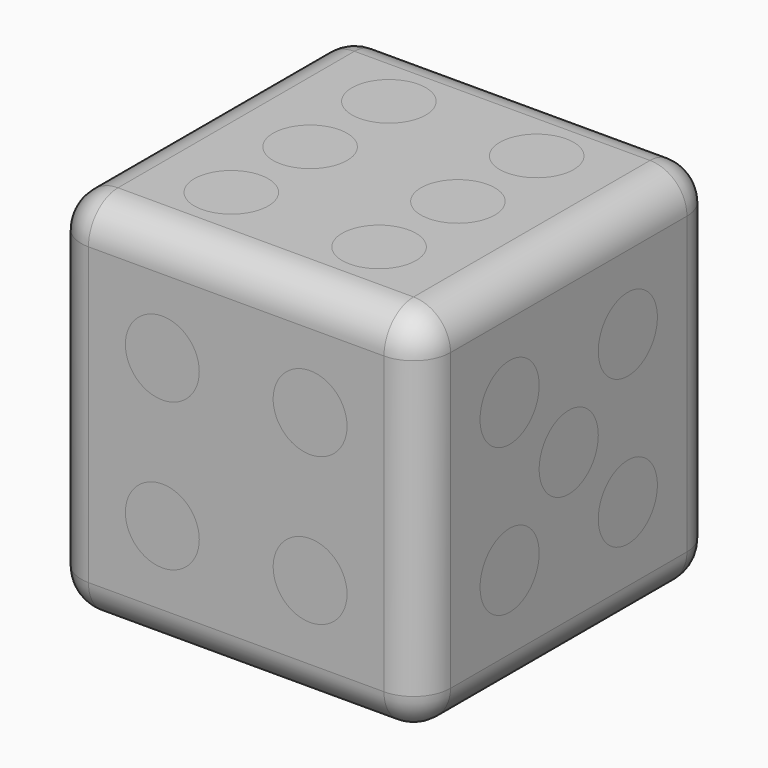
from build123d import *

# Parameters (mm, degrees)
F0_W      = 25.4
F0_H      = 25.4
F1_DEPTH  = 12.7
F2_W      = 25.4
F2_H      = 25.4
F2_W_2    = 17.78
F2_H_2    = 17.78
F3_DEPTH  = 8.89
F4_W      = 25.4
F4_H      = 25.4
F5_DEPTH  = 3.81
F6_R      = 2.54
F8_DEPTH  = 2.54
F9_R      = 2.54
F10_DEPTH = 2.54
F12_DEPTH = 2.54
F14_DEPTH = 2.54
F15_R     = 2.54
F16_DEPTH = 2.54
F18_DEPTH = 2.54
F19_DEPTH = 2.54
F20_DEPTH = 2.54
F21_DEPTH = 2.54
F22_DEPTH = 2.54
F23_DEPTH = 2.54
F24_DEPTH = 2.54


with BuildPart() as f1:
    # F0 (on Top) → F1 (new body)
    with BuildSketch(Plane.XY):
        with Locations((-40.1477050036, 31.3783520141)):
            Rectangle(F0_W, F0_H)
    extrude(amount=F1_DEPTH)

    # F2 (on face) → F3 (join)
    with BuildSketch(Plane.XY.offset(12.7)):
        with Locations((-40.1477050036, 31.3783520141)):
            Rectangle(F2_W, F2_H)
        with Locations((-40.1477050036, 31.3783520141)):
            Rectangle(F2_W_2, F2_H_2, mode=Mode.SUBTRACT)
        with Locations((-40.1477050036, 31.3783520141)):
            Rectangle(F2_W_2, F2_H_2)
    extrude(amount=F3_DEPTH)

    # F4 (on face) → F5 (join)
    with BuildSketch(Plane.XY.offset(21.59)):
        with Locations((-40.1477050036, 31.3783520141)):
            Rectangle(F4_W, F4_H)
    extrude(amount=F5_DEPTH)

    # F6
    f6_edges = [f1.edges().sort_by_distance(p)[0] for p in [
        (-40.147705, 18.678352, 25.4),
        (-27.447705, 31.378352, 25.4),
        (-27.447705, 18.678352, 12.7),
        (-27.447705, 44.078352, 12.7),
        (-40.147705, 44.078352, 25.4),
        (-52.847705, 31.378352, 25.4),
        (-52.847705, 18.678352, 12.7),
        (-40.147705, 18.678352, 0),
        (-52.847705, 31.378352, 0),
        (-40.147705, 44.078352, 0),
        (-27.447705, 31.378352, 0),
        (-52.847705, 44.078352, 12.7),
    ]]
    fillet(f6_edges, radius=F6_R)

    # F7 (on face) → F8 (cut)
    with BuildSketch(Plane.XY.offset(25.4)):
        with BuildLine():
            ThreePointArc((-42.6877050036, 38.1516853475), (-43.4316537794, 39.9477365717), (-45.2277050036, 40.6916853475))
            Line((-45.2277050036, 40.6916853475), (-45.2277050036, 38.1516853475))
            Line((-45.2277050036, 38.1516853475), (-45.2277050036, 35.6116853475))
            ThreePointArc((-45.2277050036, 35.6116853475), (-43.4316537794, 36.3556341233), (-42.6877050036, 38.1516853475))
        make_face()
        with BuildLine():
            Line((-45.2277050036, 38.1516853475), (-45.2277050036, 40.6916853475))
            ThreePointArc((-45.2277050036, 40.6916853475), (-47.7677050036, 38.1516853475), (-45.2277050036, 35.6116853475))
            Line((-45.2277050036, 35.6116853475), (-45.2277050036, 38.1516853475))
        make_face()
        with BuildLine():
            Line((-35.0677050036, 38.1516853475), (-32.5277050036, 38.1516853475))
            ThreePointArc((-32.5277050036, 38.1516853475), (-36.8637562278, 39.9477365717), (-35.0677050036, 35.6116853475))
            Line((-35.0677050036, 35.6116853475), (-35.0677050036, 38.1516853475))
        make_face()
        with BuildLine():
            ThreePointArc((-35.0677050036, 35.6116853475), (-33.2716537794, 36.3556341233), (-32.5277050036, 38.1516853475))
            Line((-32.5277050036, 38.1516853475), (-35.0677050036, 38.1516853475))
            Line((-35.0677050036, 38.1516853475), (-35.0677050036, 35.6116853475))
        make_face()
        with BuildLine():
            ThreePointArc((-32.5277050036, 31.3783520141), (-33.2716537794, 33.1744032384), (-35.0677050036, 33.9183520141))
            ThreePointArc((-35.0677050036, 33.9183520141), (-36.8637562278, 29.5823007899), (-32.5277050036, 31.3783520141))
        make_face()
        with BuildLine():
            ThreePointArc((-32.5277050036, 24.6050186808), (-36.8637562278, 26.401069905), (-35.0677050036, 22.0650186808))
            ThreePointArc((-35.0677050036, 22.0650186808), (-33.2716537794, 22.8089674566), (-32.5277050036, 24.6050186808))
        make_face()
        with BuildLine():
            ThreePointArc((-42.6877050036, 24.6050186808), (-45.2277050036, 27.1450186808), (-47.7677050036, 24.6050186808))
            ThreePointArc((-47.7677050036, 24.6050186808), (-45.2277050036, 22.0650186808), (-42.6877050036, 24.6050186808))
        make_face()
        with BuildLine():
            ThreePointArc((-42.6877050036, 31.3783520141), (-43.4316537794, 33.1744032384), (-45.2277050036, 33.9183520141))
            ThreePointArc((-45.2277050036, 33.9183520141), (-47.0237562278, 29.5823007899), (-42.6877050036, 31.3783520141))
        make_face()
    extrude(amount=-F8_DEPTH, mode=Mode.SUBTRACT)

    # F9 (on face) → F10 (cut)
    with BuildSketch(Plane.YZ.offset(-27.4477050036)):
        with BuildLine():
            ThreePointArc((28.8383520141, 17.78), (28.0944032384, 19.5760512242), (26.2983520141, 20.32))
            Line((26.2983520141, 20.32), (26.2983520141, 17.78))
            Line((26.2983520141, 17.78), (26.2983520141, 15.24))
            ThreePointArc((26.2983520141, 15.24), (28.0944032384, 15.9839487758), (28.8383520141, 17.78))
        make_face()
        with BuildLine():
            Line((26.2983520141, 17.78), (26.2983520141, 20.32))
            ThreePointArc((26.2983520141, 20.32), (23.7583520141, 17.78), (26.2983520141, 15.24))
            Line((26.2983520141, 15.24), (26.2983520141, 17.78))
        make_face()
        with BuildLine():
            ThreePointArc((28.8383520141, 7.62), (28.0944032384, 9.4160512242), (26.2983520141, 10.16))
            ThreePointArc((26.2983520141, 10.16), (24.5023007899, 5.8239487758), (28.8383520141, 7.62))
        make_face()
        with Locations((31.3783520141, 12.7)):
            Circle(F9_R)
        with BuildLine():
            Line((36.4583520141, 17.78), (38.9983520141, 17.78))
            ThreePointArc((38.9983520141, 17.78), (34.6623007899, 19.5760512242), (36.4583520141, 15.24))
            Line((36.4583520141, 15.24), (36.4583520141, 17.78))
        make_face()
        with BuildLine():
            ThreePointArc((36.4583520141, 15.24), (38.2544032384, 15.9839487758), (38.9983520141, 17.78))
            Line((38.9983520141, 17.78), (36.4583520141, 17.78))
            Line((36.4583520141, 17.78), (36.4583520141, 15.24))
        make_face()
        with BuildLine():
            ThreePointArc((38.9983520141, 7.62), (38.2544032384, 9.4160512242), (36.4583520141, 10.16))
            ThreePointArc((36.4583520141, 10.16), (34.6623007899, 5.8239487758), (38.9983520141, 7.62))
        make_face()
    extrude(amount=-F10_DEPTH, mode=Mode.SUBTRACT)

    # F11 (on face) → F12 (cut)
    with BuildSketch(Plane(origin=(0, 44.0783520141, 0), x_dir=(-1, 0, 0), z_dir=(0, 1, 0))):
        with BuildLine():
            ThreePointArc((37.6077050036, 17.78), (36.8637562278, 19.5760512242), (35.0677050036, 20.32))
            ThreePointArc((35.0677050036, 20.32), (33.2716537794, 15.9839487758), (37.6077050036, 17.78))
        make_face()
        with BuildLine():
            ThreePointArc((42.6877050036, 12.7), (41.9437562278, 14.4960512242), (40.1477050036, 15.24))
            ThreePointArc((40.1477050036, 15.24), (38.3516537794, 10.9039487758), (42.6877050036, 12.7))
        make_face()
        with BuildLine():
            ThreePointArc((47.7677050036, 7.62), (43.4316537794, 9.4160512242), (45.2277050036, 5.08))
            ThreePointArc((45.2277050036, 5.08), (47.0237562278, 5.8239487758), (47.7677050036, 7.62))
        make_face()
    extrude(amount=-F12_DEPTH, mode=Mode.SUBTRACT)

    # F13 (on face) → F14 (cut)
    with BuildSketch(Plane(origin=(-52.8477050036, 0, 0), x_dir=(0, -1, 0), z_dir=(-1, 0, 0))):
        with BuildLine():
            ThreePointArc((-33.9183520141, 17.78), (-34.6623007899, 19.5760512242), (-36.4583520141, 20.32))
            ThreePointArc((-36.4583520141, 20.32), (-38.2544032384, 15.9839487758), (-33.9183520141, 17.78))
        make_face()
        with BuildLine():
            ThreePointArc((-23.7583520141, 7.62), (-28.0944032384, 9.4160512242), (-26.2983520141, 5.08))
            ThreePointArc((-26.2983520141, 5.08), (-24.5023007899, 5.8239487758), (-23.7583520141, 7.62))
        make_face()
    extrude(amount=-F14_DEPTH, mode=Mode.SUBTRACT)

    # F15 (on face) → F16 (cut)
    with BuildSketch(Plane.XZ.offset(-18.6783520141)):
        with BuildLine():
            ThreePointArc((-42.6877050036, 17.78), (-43.4316537794, 19.5760512242), (-45.2277050036, 20.32))
            ThreePointArc((-45.2277050036, 20.32), (-47.0237562278, 15.9839487758), (-42.6877050036, 17.78))
        make_face()
        with Locations((-35.0677050036, 17.78)):
            Circle(F15_R)
        with BuildLine():
            ThreePointArc((-32.5277050036, 7.62), (-36.8637562278, 9.4160512242), (-35.0677050036, 5.08))
            ThreePointArc((-35.0677050036, 5.08), (-33.2716537794, 5.8239487758), (-32.5277050036, 7.62))
        make_face()
        with BuildLine():
            ThreePointArc((-42.6877050036, 7.62), (-47.0237562278, 9.4160512242), (-45.2277050036, 5.08))
            ThreePointArc((-45.2277050036, 5.08), (-43.4316537794, 5.8239487758), (-42.6877050036, 7.62))
        make_face()
    extrude(amount=-F16_DEPTH, mode=Mode.SUBTRACT)

    # F17 (on face) → F18 (cut)
    with BuildSketch(Plane(origin=(0, 0, 0), x_dir=(1, 0, 0), z_dir=(0, 0, -1))):
        with BuildLine():
            ThreePointArc((-37.6077050036, -31.3783520141), (-38.3516537794, -29.5823007899), (-40.1477050036, -28.8383520141))
            ThreePointArc((-40.1477050036, -28.8383520141), (-41.9437562278, -33.1744032384), (-37.6077050036, -31.3783520141))
        make_face()
    extrude(amount=-F18_DEPTH, mode=Mode.SUBTRACT)


with BuildPart() as f19:
    # F11 (on face) → F19 (new body)
    with BuildSketch(Plane(origin=(0, 44.0783520141, 0), x_dir=(-1, 0, 0), z_dir=(0, 1, 0))):
        with BuildLine():
            ThreePointArc((37.6077050036, 17.78), (36.8637562278, 19.5760512242), (35.0677050036, 20.32))
            ThreePointArc((35.0677050036, 20.32), (33.2716537794, 15.9839487758), (37.6077050036, 17.78))
        make_face()
    extrude(amount=-F19_DEPTH)


with BuildPart() as f19b:
    # F11 (on face) → F19, piece 2 (new body)
    with BuildSketch(Plane(origin=(0, 44.0783520141, 0), x_dir=(-1, 0, 0), z_dir=(0, 1, 0))):
        with BuildLine():
            ThreePointArc((42.6877050036, 12.7), (41.9437562278, 14.4960512242), (40.1477050036, 15.24))
            ThreePointArc((40.1477050036, 15.24), (38.3516537794, 10.9039487758), (42.6877050036, 12.7))
        make_face()
    extrude(amount=-F19_DEPTH)


with BuildPart() as f19c:
    # F11 (on face) → F19, piece 3 (new body)
    with BuildSketch(Plane(origin=(0, 44.0783520141, 0), x_dir=(-1, 0, 0), z_dir=(0, 1, 0))):
        with BuildLine():
            ThreePointArc((47.7677050036, 7.62), (43.4316537794, 9.4160512242), (45.2277050036, 5.08))
            ThreePointArc((45.2277050036, 5.08), (47.0237562278, 5.8239487758), (47.7677050036, 7.62))
        make_face()
    extrude(amount=-F19_DEPTH)


with BuildPart() as f20:
    # F9 (on face) → F20 (new body)
    with BuildSketch(Plane.YZ.offset(-27.4477050036)):
        with BuildLine():
            ThreePointArc((28.8383520141, 17.78), (28.0944032384, 19.5760512242), (26.2983520141, 20.32))
            Line((26.2983520141, 20.32), (26.2983520141, 17.78))
            Line((26.2983520141, 17.78), (26.2983520141, 15.24))
            ThreePointArc((26.2983520141, 15.24), (28.0944032384, 15.9839487758), (28.8383520141, 17.78))
        make_face()
        with BuildLine():
            Line((26.2983520141, 17.78), (26.2983520141, 20.32))
            ThreePointArc((26.2983520141, 20.32), (23.7583520141, 17.78), (26.2983520141, 15.24))
            Line((26.2983520141, 15.24), (26.2983520141, 17.78))
        make_face()
    extrude(amount=-F20_DEPTH)


with BuildPart() as f20b:
    # F9 (on face) → F20, piece 2 (new body)
    with BuildSketch(Plane.YZ.offset(-27.4477050036)):
        with BuildLine():
            Line((36.4583520141, 17.78), (38.9983520141, 17.78))
            ThreePointArc((38.9983520141, 17.78), (34.6623007899, 19.5760512242), (36.4583520141, 15.24))
            Line((36.4583520141, 15.24), (36.4583520141, 17.78))
        make_face()
        with BuildLine():
            ThreePointArc((36.4583520141, 15.24), (38.2544032384, 15.9839487758), (38.9983520141, 17.78))
            Line((38.9983520141, 17.78), (36.4583520141, 17.78))
            Line((36.4583520141, 17.78), (36.4583520141, 15.24))
        make_face()
    extrude(amount=-F20_DEPTH)


with BuildPart() as f20c:
    # F9 (on face) → F20, piece 3 (new body)
    with BuildSketch(Plane.YZ.offset(-27.4477050036)):
        with BuildLine():
            ThreePointArc((28.8383520141, 7.62), (28.0944032384, 9.4160512242), (26.2983520141, 10.16))
            ThreePointArc((26.2983520141, 10.16), (24.5023007899, 5.8239487758), (28.8383520141, 7.62))
        make_face()
    extrude(amount=-F20_DEPTH)


with BuildPart() as f20d:
    # F9 (on face) → F20, piece 4 (new body)
    with BuildSketch(Plane.YZ.offset(-27.4477050036)):
        with Locations((31.3783520141, 12.7)):
            Circle(F9_R)
    extrude(amount=-F20_DEPTH)


with BuildPart() as f20e:
    # F9 (on face) → F20, piece 5 (new body)
    with BuildSketch(Plane.YZ.offset(-27.4477050036)):
        with BuildLine():
            ThreePointArc((38.9983520141, 7.62), (38.2544032384, 9.4160512242), (36.4583520141, 10.16))
            ThreePointArc((36.4583520141, 10.16), (34.6623007899, 5.8239487758), (38.9983520141, 7.62))
        make_face()
    extrude(amount=-F20_DEPTH)


with BuildPart() as f21:
    # F13 (on face) → F21 (new body)
    with BuildSketch(Plane(origin=(-52.8477050036, 0, 0), x_dir=(0, -1, 0), z_dir=(-1, 0, 0))):
        with BuildLine():
            ThreePointArc((-33.9183520141, 17.78), (-34.6623007899, 19.5760512242), (-36.4583520141, 20.32))
            ThreePointArc((-36.4583520141, 20.32), (-38.2544032384, 15.9839487758), (-33.9183520141, 17.78))
        make_face()
    extrude(amount=-F21_DEPTH)


with BuildPart() as f21b:
    # F13 (on face) → F21, piece 2 (new body)
    with BuildSketch(Plane(origin=(-52.8477050036, 0, 0), x_dir=(0, -1, 0), z_dir=(-1, 0, 0))):
        with BuildLine():
            ThreePointArc((-23.7583520141, 7.62), (-28.0944032384, 9.4160512242), (-26.2983520141, 5.08))
            ThreePointArc((-26.2983520141, 5.08), (-24.5023007899, 5.8239487758), (-23.7583520141, 7.62))
        make_face()
    extrude(amount=-F21_DEPTH)


with BuildPart() as f22:
    # F15 (on face) → F22 (new body)
    with BuildSketch(Plane.XZ.offset(-18.6783520141)):
        with BuildLine():
            ThreePointArc((-42.6877050036, 17.78), (-43.4316537794, 19.5760512242), (-45.2277050036, 20.32))
            ThreePointArc((-45.2277050036, 20.32), (-47.0237562278, 15.9839487758), (-42.6877050036, 17.78))
        make_face()
    extrude(amount=-F22_DEPTH)


with BuildPart() as f22b:
    # F15 (on face) → F22, piece 2 (new body)
    with BuildSketch(Plane.XZ.offset(-18.6783520141)):
        with Locations((-35.0677050036, 17.78)):
            Circle(F15_R)
    extrude(amount=-F22_DEPTH)


with BuildPart() as f22c:
    # F15 (on face) → F22, piece 3 (new body)
    with BuildSketch(Plane.XZ.offset(-18.6783520141)):
        with BuildLine():
            ThreePointArc((-32.5277050036, 7.62), (-36.8637562278, 9.4160512242), (-35.0677050036, 5.08))
            ThreePointArc((-35.0677050036, 5.08), (-33.2716537794, 5.8239487758), (-32.5277050036, 7.62))
        make_face()
    extrude(amount=-F22_DEPTH)


with BuildPart() as f22d:
    # F15 (on face) → F22, piece 4 (new body)
    with BuildSketch(Plane.XZ.offset(-18.6783520141)):
        with BuildLine():
            ThreePointArc((-42.6877050036, 7.62), (-47.0237562278, 9.4160512242), (-45.2277050036, 5.08))
            ThreePointArc((-45.2277050036, 5.08), (-43.4316537794, 5.8239487758), (-42.6877050036, 7.62))
        make_face()
    extrude(amount=-F22_DEPTH)


with BuildPart() as f23:
    # F17 (on face) → F23 (new body)
    with BuildSketch(Plane(origin=(0, 0, 0), x_dir=(1, 0, 0), z_dir=(0, 0, -1))):
        with BuildLine():
            ThreePointArc((-37.6077050036, -31.3783520141), (-38.3516537794, -29.5823007899), (-40.1477050036, -28.8383520141))
            ThreePointArc((-40.1477050036, -28.8383520141), (-41.9437562278, -33.1744032384), (-37.6077050036, -31.3783520141))
        make_face()
    extrude(amount=-F23_DEPTH)


with BuildPart() as f24:
    # F7 (on face) → F24 (new body)
    with BuildSketch(Plane.XY.offset(25.4)):
        with BuildLine():
            Line((-45.2277050036, 38.1516853475), (-45.2277050036, 40.6916853475))
            ThreePointArc((-45.2277050036, 40.6916853475), (-47.7677050036, 38.1516853475), (-45.2277050036, 35.6116853475))
            Line((-45.2277050036, 35.6116853475), (-45.2277050036, 38.1516853475))
        make_face()
        with BuildLine():
            ThreePointArc((-42.6877050036, 38.1516853475), (-43.4316537794, 39.9477365717), (-45.2277050036, 40.6916853475))
            Line((-45.2277050036, 40.6916853475), (-45.2277050036, 38.1516853475))
            Line((-45.2277050036, 38.1516853475), (-45.2277050036, 35.6116853475))
            ThreePointArc((-45.2277050036, 35.6116853475), (-43.4316537794, 36.3556341233), (-42.6877050036, 38.1516853475))
        make_face()
    extrude(amount=-F24_DEPTH)


with BuildPart() as f24b:
    # F7 (on face) → F24, piece 2 (new body)
    with BuildSketch(Plane.XY.offset(25.4)):
        with BuildLine():
            ThreePointArc((-42.6877050036, 31.3783520141), (-43.4316537794, 33.1744032384), (-45.2277050036, 33.9183520141))
            ThreePointArc((-45.2277050036, 33.9183520141), (-47.0237562278, 29.5823007899), (-42.6877050036, 31.3783520141))
        make_face()
    extrude(amount=-F24_DEPTH)


with BuildPart() as f24c:
    # F7 (on face) → F24, piece 3 (new body)
    with BuildSketch(Plane.XY.offset(25.4)):
        with BuildLine():
            ThreePointArc((-42.6877050036, 24.6050186808), (-45.2277050036, 27.1450186808), (-47.7677050036, 24.6050186808))
            ThreePointArc((-47.7677050036, 24.6050186808), (-45.2277050036, 22.0650186808), (-42.6877050036, 24.6050186808))
        make_face()
    extrude(amount=-F24_DEPTH)


with BuildPart() as f24d:
    # F7 (on face) → F24, piece 4 (new body)
    with BuildSketch(Plane.XY.offset(25.4)):
        with BuildLine():
            ThreePointArc((-32.5277050036, 24.6050186808), (-36.8637562278, 26.401069905), (-35.0677050036, 22.0650186808))
            ThreePointArc((-35.0677050036, 22.0650186808), (-33.2716537794, 22.8089674566), (-32.5277050036, 24.6050186808))
        make_face()
    extrude(amount=-F24_DEPTH)


with BuildPart() as f24e:
    # F7 (on face) → F24, piece 5 (new body)
    with BuildSketch(Plane.XY.offset(25.4)):
        with BuildLine():
            ThreePointArc((-32.5277050036, 31.3783520141), (-33.2716537794, 33.1744032384), (-35.0677050036, 33.9183520141))
            ThreePointArc((-35.0677050036, 33.9183520141), (-36.8637562278, 29.5823007899), (-32.5277050036, 31.3783520141))
        make_face()
    extrude(amount=-F24_DEPTH)


with BuildPart() as f24f:
    # F7 (on face) → F24, piece 6 (new body)
    with BuildSketch(Plane.XY.offset(25.4)):
        with BuildLine():
            Line((-35.0677050036, 38.1516853475), (-32.5277050036, 38.1516853475))
            ThreePointArc((-32.5277050036, 38.1516853475), (-36.8637562278, 39.9477365717), (-35.0677050036, 35.6116853475))
            Line((-35.0677050036, 35.6116853475), (-35.0677050036, 38.1516853475))
        make_face()
        with BuildLine():
            ThreePointArc((-35.0677050036, 35.6116853475), (-33.2716537794, 36.3556341233), (-32.5277050036, 38.1516853475))
            Line((-32.5277050036, 38.1516853475), (-35.0677050036, 38.1516853475))
            Line((-35.0677050036, 38.1516853475), (-35.0677050036, 35.6116853475))
        make_face()
    extrude(amount=-F24_DEPTH)


solid = Compound([f1.part, f19.part, f19b.part, f19c.part, f20.part, f20b.part, f20c.part, f20d.part, f20e.part, f21.part, f21b.part, f22.part, f22b.part, f22c.part, f22d.part, f23.part, f24.part, f24b.part, f24c.part, f24d.part, f24e.part, f24f.part])
